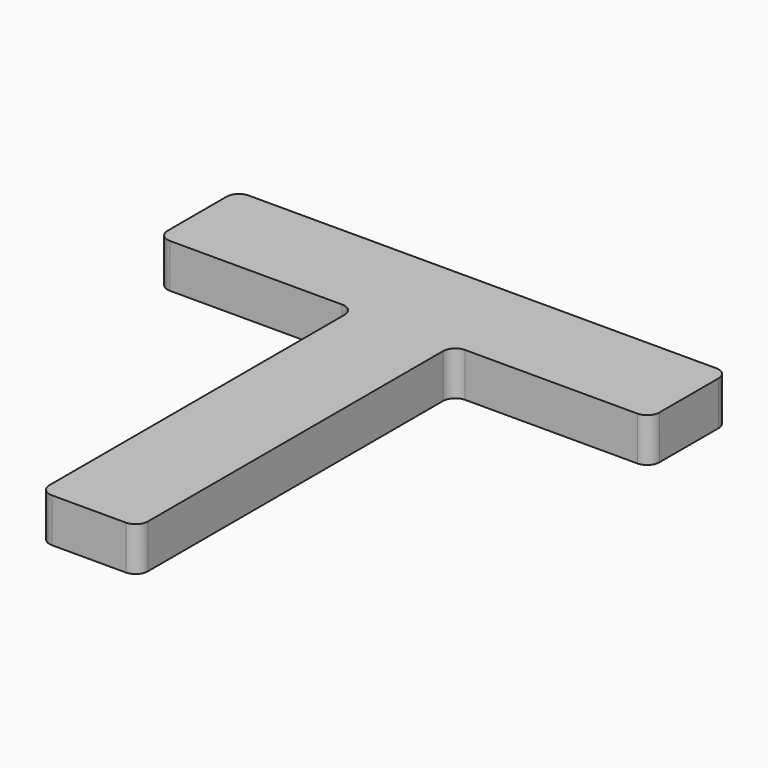
from build123d import *

# Parameters (mm, degrees)
PAD_DEPTH = 3.175
FILLET_R  = 0.889


with BuildPart() as part:
    # Sketch → Pad (new body)
    with BuildSketch(Plane.XY):
        Polygon((-17.78, 21.336), (17.78, 21.336), (17.78, 14.224), (3.556, 14.224), (3.556, -14.224), (-3.556, -14.224), (-3.556, 14.224), (-17.78, 14.224), align=None)
    extrude(amount=PAD_DEPTH)

    # Fillet
    fillet_edges = [part.edges().sort_by_distance(p)[0] for p in [
        (-17.78, 21.336, 1.5875),
        (-17.78, 14.224, 1.5875),
        (-3.556, 14.224, 1.5875),
        (17.78, 14.224, 1.5875),
        (-3.556, -14.224, 1.5875),
        (3.556, -14.224, 1.5875),
        (17.78, 21.336, 1.5875),
        (3.556, 14.224, 1.5875),
    ]]
    fillet(fillet_edges, radius=FILLET_R)


solid = part.part
